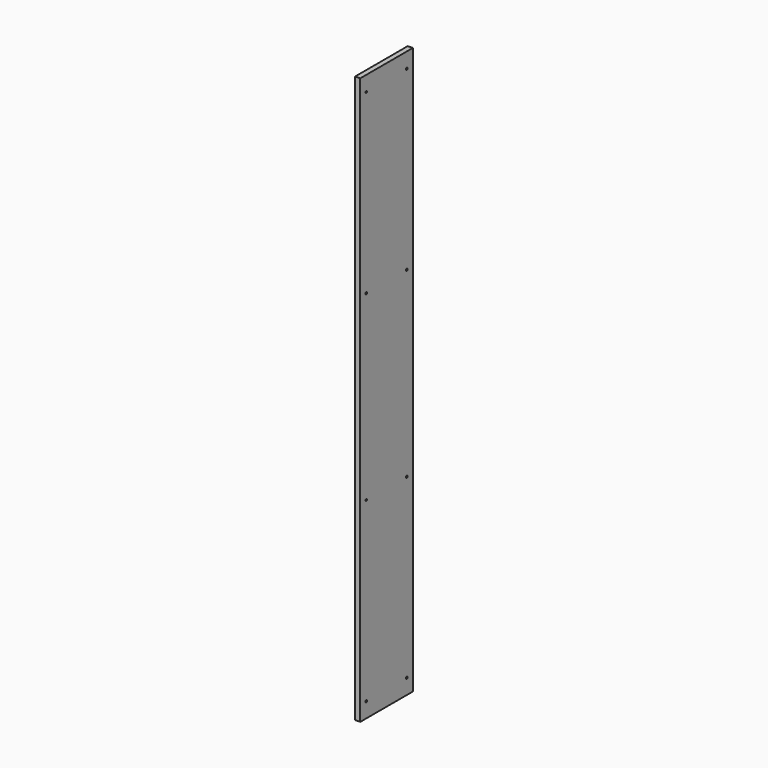
from build123d import *

# Parameters (mm, degrees)
F0_W     = 130
F0_H     = 1120
F1_DEPTH = 10
F3_D     = 4


with BuildPart() as f1:
    # F0 (on Right) → F1 (new body)
    with BuildSketch(Plane.YZ):
        with Locations((-445.906552, 27.912206)):
            Rectangle(F0_W, F0_H)
    extrude(amount=F1_DEPTH)

    # F3 (through all)
    with Locations(Plane.YZ.offset(10)):
        with Locations((-495.906552, 557.912206), (-395.906552, 557.912206), (-395.906552, 207.912206), (-495.906552, 207.912206), (-395.906552, -152.087794), (-495.906552, -152.087794), (-495.906552, -502.087794), (-395.906552, -502.087794)):
            Hole(F3_D / 2)


solid = f1.part
